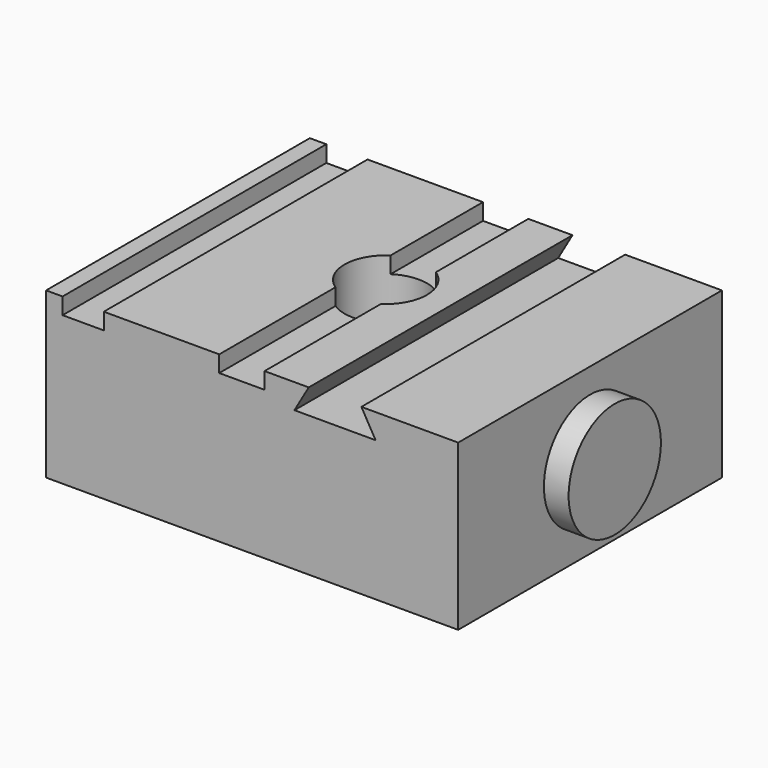
from build123d import *

# Parameters (mm, degrees)
F0_W     = 50
F0_H     = 40
F0_R     = 5
F1_DEPTH = 20
F2_W     = 5
F2_H     = 40
F3_DEPTH = 2
F5_DEPTH = 40.001
F6_R     = 7
F7_DEPTH = 3


with BuildPart() as f1:
    # F0 (on Top) → F1 (new body)
    with BuildSketch(Plane.XY):
        with Locations((1.241206, -1.809668)):
            Rectangle(F0_W, F0_H)
        Circle(F0_R, mode=Mode.SUBTRACT)
    extrude(amount=F1_DEPTH)

    # F2 (on face) → F3 (cut)
    with BuildSketch(Plane.XY.offset(20)):
        with Locations((-19.258794, -1.809668)):
            Rectangle(F2_W, F2_H)
        with BuildLine():
            Line((-2.75, -4.175823), (-2.75, -21.809668))
            Line((-2.75, -21.809668), (2.75, -21.809668))
            Line((2.75, -21.809668), (2.75, -4.175823))
            ThreePointArc((2.75, -4.175823), (0, -5), (-2.75, -4.175823))
        make_face()
        with BuildLine():
            Line((2.75, 18.190332), (-2.75, 18.190332))
            Line((-2.75, 18.190332), (-2.75, 4.175823))
            ThreePointArc((-2.75, 4.175823), (0, 5), (2.75, 4.175823))
            Line((2.75, 4.175823), (2.75, 18.190332))
        make_face()
    extrude(amount=-F3_DEPTH, mode=Mode.SUBTRACT)

    # F4 (on face) → F5 (cut, through all)
    with BuildSketch(Plane.XZ.offset(21.809668)):
        Polygon((14.495603, 20), (8.107771, 20), (6.37572, 17), (16.227654, 17), align=None)
    extrude(amount=-F5_DEPTH, mode=Mode.SUBTRACT)

    # F6 (on face) → F7 (join)
    with BuildSketch(Plane.YZ.offset(26.241206)):
        with Locations((-1.809668, 10)):
            Circle(F6_R)
    extrude(amount=F7_DEPTH)


solid = f1.part
